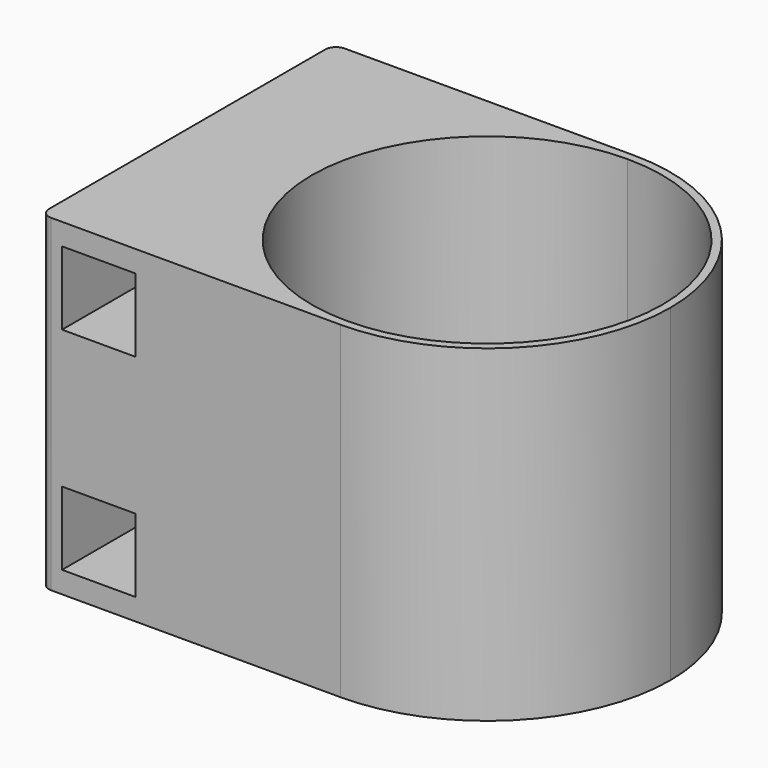
from build123d import *

# Parameters (mm, degrees)
F1_DEPTH = 30.4
F2_DEPTH = 2
F3_W     = 6.8
F3_H     = 6.8
F4_DEPTH = 50
F5_R     = 1


with BuildPart() as f1:
    # F0 (on Top) → F1 (new body)
    with BuildSketch(Plane.XY):
        with BuildLine():
            ThreePointArc((0, -17), (-17, 0), (0, 17))
            Line((0, 17), (-27.8, 17))
            Line((-27.8, 17), (-27.8, -17))
            Line((-27.8, -17), (0, -17))
        make_face()
        with BuildLine():
            ThreePointArc((0, -16.25), (-16.25, 0), (0, 16.25))
            Line((0, 16.25), (0, 17))
            ThreePointArc((0, 17), (-17, 0), (0, -17))
            Line((0, -17), (0, -16.25))
        make_face()
        with BuildLine():
            ThreePointArc((0, 16.25), (11.4904851943, 11.4904851943), (16.25, 0))
            ThreePointArc((16.25, 0), (11.4904851943, -11.4904851943), (0, -16.25))
            Line((0, -16.25), (0, -17))
            ThreePointArc((0, -17), (12.0208152802, -12.0208152802), (17, 0))
            ThreePointArc((17, 0), (12.0208152802, 12.0208152802), (0, 17))
            Line((0, 17), (0, 16.25))
        make_face()
    extrude(amount=F1_DEPTH)

    # F0 (on Top) → F2 (join)
    with BuildSketch(Plane.XY):
        with BuildLine():
            ThreePointArc((0, -16.25), (11.4904851943, -11.4904851943), (16.25, 0))
            ThreePointArc((16.25, 0), (11.4904851943, 11.4904851943), (0, 16.25))
            Line((0, 16.25), (0, 14.75))
            ThreePointArc((0, 14.75), (1.2374368671, 14.2374368671), (1.75, 13))
            ThreePointArc((1.75, 13), (1.6167891819, 12.3303039934), (1.2374368671, 11.7625631329))
            Line((1.2374368671, 11.7625631329), (4.2019029611, 8.7980970389))
            ThreePointArc((4.2019029611, 8.7980970389), (6.8942911166, 6.8942911166), (8.7980970389, 4.2019029611))
            Line((8.7980970389, 4.2019029611), (11.7625631329, 1.2374368671))
            ThreePointArc((11.7625631329, 1.2374368671), (13.6696960066, 1.6167891819), (14.75, 0))
            ThreePointArc((14.75, 0), (13.6696960066, -1.6167891819), (11.7625631329, -1.2374368671))
            Line((11.7625631329, -1.2374368671), (8.7980970389, -4.2019029611))
            ThreePointArc((8.7980970389, -4.2019029611), (6.8942911166, -6.8942911166), (4.2019029611, -8.7980970389))
            Line((4.2019029611, -8.7980970389), (1.2374368671, -11.7625631329))
            ThreePointArc((1.2374368671, -11.7625631329), (1.6167891819, -12.3303039934), (1.75, -13))
            ThreePointArc((1.75, -13), (1.2374368671, -14.2374368671), (0, -14.75))
            Line((0, -14.75), (0, -16.25))
        make_face()
        with BuildLine():
            Line((0, 14.75), (0, 16.25))
            ThreePointArc((0, 16.25), (-16.25, 0), (0, -16.25))
            Line((0, -16.25), (0, -14.75))
            ThreePointArc((0, -14.75), (-1.6167891819, -13.6696960066), (-1.2374368671, -11.7625631329))
            Line((-1.2374368671, -11.7625631329), (-4.2019029611, -8.7980970389))
            ThreePointArc((-4.2019029611, -8.7980970389), (-6.8942911166, -6.8942911166), (-8.7980970389, -4.2019029611))
            Line((-8.7980970389, -4.2019029611), (-11.7625631329, -1.2374368671))
            ThreePointArc((-11.7625631329, -1.2374368671), (-14.75, 0), (-11.7625631329, 1.2374368671))
            Line((-11.7625631329, 1.2374368671), (-8.7980970389, 4.2019029611))
            ThreePointArc((-8.7980970389, 4.2019029611), (-6.8942911166, 6.8942911166), (-4.2019029611, 8.7980970389))
            Line((-4.2019029611, 8.7980970389), (-1.2374368671, 11.7625631329))
            ThreePointArc((-1.2374368671, 11.7625631329), (-1.6167891819, 13.6696960066), (0, 14.75))
        make_face()
        with BuildLine():
            ThreePointArc((1.2374368671, 11.7625631329), (0.6696960066, 11.3832108181), (0, 11.25))
            Line((0, 11.25), (0, 9.75))
            ThreePointArc((0, 9.75), (2.1541882312, 9.5090469062), (4.2019029611, 8.7980970389))
            Line((4.2019029611, 8.7980970389), (1.2374368671, 11.7625631329))
        make_face()
        with BuildLine():
            ThreePointArc((0, 11.25), (-0.6696960066, 11.3832108181), (-1.2374368671, 11.7625631329))
            Line((-1.2374368671, 11.7625631329), (-4.2019029611, 8.7980970389))
            ThreePointArc((-4.2019029611, 8.7980970389), (-2.1541882312, 9.5090469062), (0, 9.75))
            Line((0, 9.75), (0, 11.25))
        make_face()
        with BuildLine():
            ThreePointArc((-8.7980970389, -4.2019029611), (-9.75, 0), (-8.7980970389, 4.2019029611))
            Line((-8.7980970389, 4.2019029611), (-11.7625631329, 1.2374368671))
            ThreePointArc((-11.7625631329, 1.2374368671), (-11.3832108181, 0.6696960066), (-11.25, 0))
            ThreePointArc((-11.25, 0), (-11.3832108181, -0.6696960066), (-11.7625631329, -1.2374368671))
            Line((-11.7625631329, -1.2374368671), (-8.7980970389, -4.2019029611))
        make_face()
        with BuildLine():
            Line((11.7625631329, 1.2374368671), (8.7980970389, 4.2019029611))
            ThreePointArc((8.7980970389, 4.2019029611), (9.5090469062, 2.1541882312), (9.75, 0))
            ThreePointArc((9.75, 0), (9.5090469062, -2.1541882312), (8.7980970389, -4.2019029611))
            Line((8.7980970389, -4.2019029611), (11.7625631329, -1.2374368671))
            ThreePointArc((11.7625631329, -1.2374368671), (11.25, 0), (11.7625631329, 1.2374368671))
        make_face()
        with BuildLine():
            Line((0, -9.75), (0, -11.25))
            ThreePointArc((0, -11.25), (0.6696960066, -11.3832108181), (1.2374368671, -11.7625631329))
            Line((1.2374368671, -11.7625631329), (4.2019029611, -8.7980970389))
            ThreePointArc((4.2019029611, -8.7980970389), (2.1541882312, -9.5090469062), (0, -9.75))
        make_face()
        with BuildLine():
            Line((-4.2019029611, -8.7980970389), (-1.2374368671, -11.7625631329))
            ThreePointArc((-1.2374368671, -11.7625631329), (-0.6696960066, -11.3832108181), (0, -11.25))
            Line((0, -11.25), (0, -9.75))
            ThreePointArc((0, -9.75), (-2.1541882312, -9.5090469062), (-4.2019029611, -8.7980970389))
        make_face()
    extrude(amount=F2_DEPTH)

    # F3 (on face) → F4 (cut)
    with BuildSketch(Plane.XZ.offset(17)):
        with Locations((-22.4, 25)):
            Rectangle(F3_W, F3_H)
        with Locations((-22.4, 5.4)):
            Rectangle(F3_W, F3_H)
    extrude(amount=-F4_DEPTH, mode=Mode.SUBTRACT)

    # F5
    f5_edges = [f1.edges().sort_by_distance(p)[0] for p in [
        (-27.8, 17, 15.2),
        (-27.8, -17, 15.2),
    ]]
    fillet(f5_edges, radius=F5_R)


solid = f1.part
